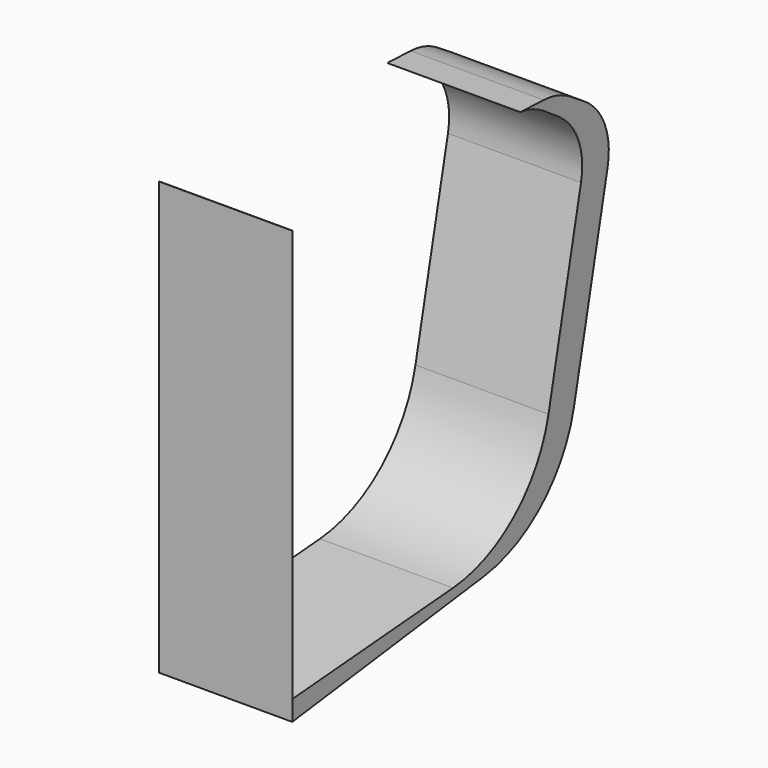
from build123d import *

# Parameters (mm, degrees)
F1_DEPTH = 25.4
F3_DEPTH = 25.4


with BuildPart() as f1:
    # F0 (on Right) → F1 (new body)
    with BuildSketch(Plane.YZ):
        with BuildLine():
            Line((59.986649, 93.882993), (0, 96.303664))
            Line((0, 96.303664), (0, 13.753664))
            Line((0, 13.753664), (45.659447, 19.616255))
            ThreePointArc((45.659447, 19.616255), (59.598589, 26.095346), (67.248097, 39.428138))
            Line((67.248097, 39.428138), (75.248551, 76.333463))
            ThreePointArc((75.248551, 76.333463), (74.572663, 83.87804), (69.721863, 89.695876))
            Line((69.721863, 89.695876), (66.359593, 91.865085))
            ThreePointArc((66.359593, 91.865085), (63.308272, 93.300871), (59.986649, 93.882993))
        make_face()
    extrude(amount=F1_DEPTH)

    # F2 (on Right) → F3 (cut)
    with BuildSketch(Plane.YZ):
        with BuildLine():
            Line((53.491388, 94.179961), (0.046442, 96.336651))
            Line((0.046442, 96.336651), (0.046442, 17.596651))
            Line((0.046442, 17.596651), (38.357177, 20.677887))
            ThreePointArc((38.357177, 20.677887), (53.046062, 26.879941), (61.144304, 40.614835))
            Line((61.144304, 40.614835), (68.899807, 76.390228))
            ThreePointArc((68.899807, 76.390228), (68.29251, 83.765528), (63.677185, 89.550217))
            Line((63.677185, 89.550217), (60.168399, 91.95963))
            ThreePointArc((60.168399, 91.95963), (56.986736, 93.541454), (53.491388, 94.179961))
        make_face()
    extrude(amount=F3_DEPTH, mode=Mode.SUBTRACT)


solid = f1.part
